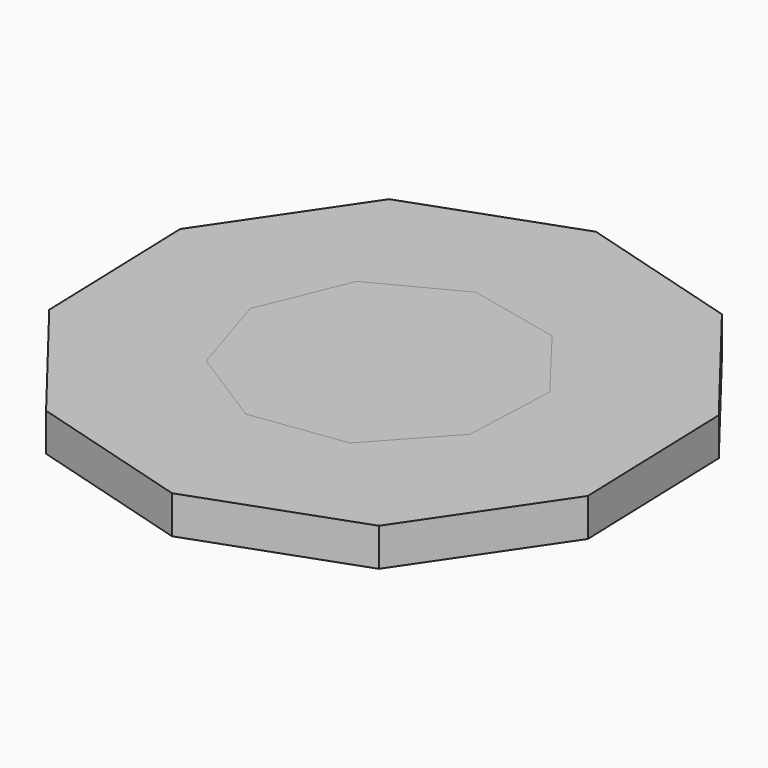
from build123d import *

# Parameters (mm, degrees)
F1_DEPTH = 25.4
F3_DEPTH = 25.4
F4_DEPTH = 25.4


with BuildPart() as f1:
    # F0 (on Top) → F1 (new body)
    with BuildSketch(Plane.XY):
        Polygon((42.988974, -82.382422), (85.885865, -35.475817), (88.595805, 28.030317), (49.850783, 78.420754), (-12.219974, 92.117249), (-68.572869, 62.711059), (-92.839757, 3.961667), (-73.665891, -56.641432), (-20.022935, -90.741376), align=None)
    extrude(amount=F1_DEPTH)


with BuildPart() as f3:
    # F2 (on face) → F3 (new body)
    with BuildSketch(Plane.XY.offset(25.4)):
        Polygon((113.479517, -146.097221), (177.680649, -51.493548), (174.013813, 62.77891), (103.879614, 153.071958), (-5.933066, 184.896721), (-113.479517, 146.097221), (-177.680649, 51.493548), (-174.013813, -62.77891), (-103.879614, -153.071958), (5.933066, -184.896721), align=None)
        Polygon((42.988974, -82.382422), (-20.022935, -90.741376), (-73.665891, -56.641432), (-92.839757, 3.961667), (-68.572869, 62.711059), (-12.219974, 92.117249), (49.850783, 78.420754), (88.595805, 28.030317), (85.885865, -35.475817), align=None, mode=Mode.SUBTRACT)
    extrude(amount=F3_DEPTH)


with BuildPart() as f4:
    # F1_face (on face) → F4 (new body)
    with BuildSketch(Plane.XY.offset(25.4)):
        Polygon((-20.022935, -90.741376), (42.988974, -82.382422), (85.885865, -35.475817), (88.595805, 28.030317), (49.850783, 78.420754), (-12.219974, 92.117249), (-68.572869, 62.711059), (-92.839757, 3.961667), (-73.665891, -56.641432), align=None)
    extrude(amount=F4_DEPTH)


solid = Compound([f1.part, f3.part, f4.part])
